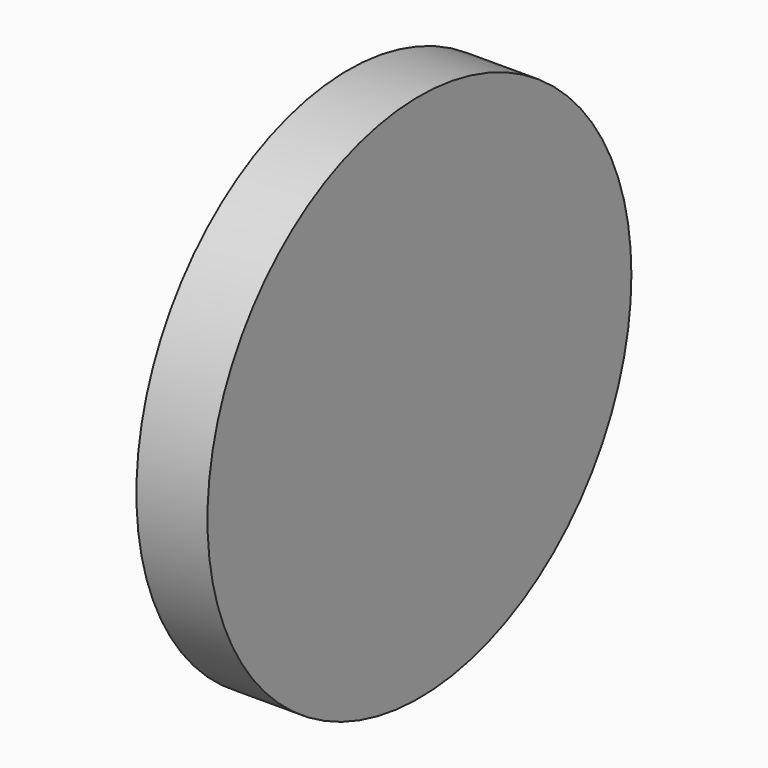
from build123d import *

# Parameters (mm, degrees)
F0_R      = 109.529426
F1_DEPTH  = 12.214186
F1_FACE_R = 109.529426
F2_DEPTH  = 17.1587


with BuildPart() as f1:
    # F0 (on Right) → F1 (new body)
    with BuildSketch(Plane.YZ):
        Circle(F0_R)
    extrude(amount=F1_DEPTH)

    # F1_face (on face) → F2 (join)
    with BuildSketch(Plane(origin=(0, 0, 0), x_dir=(0, 1, 0), z_dir=(-1, 0, 0))):
        Circle(F1_FACE_R)
    extrude(amount=F2_DEPTH)


solid = f1.part
